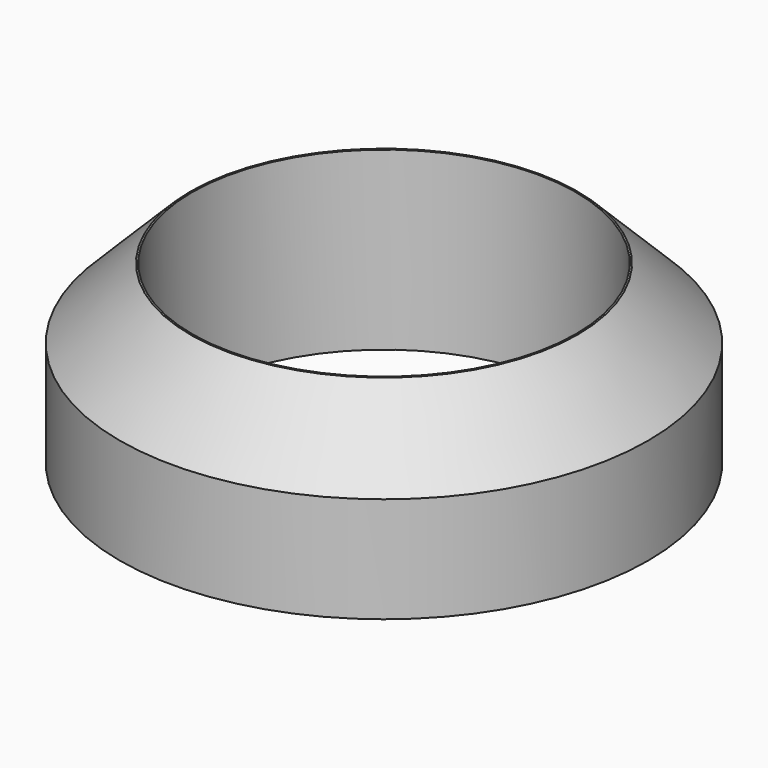
from build123d import *

# Parameters (mm, degrees)
SKETCH_R     = 30
PAD_DEPTH    = 20
SKETCH001_R  = 21.8
POCKET_DEPTH = 25
CHAMFER_SIZE = 8


with BuildPart() as part:
    # Sketch → Pad (new body)
    with BuildSketch(Plane.XY):
        Circle(SKETCH_R)
    extrude(amount=PAD_DEPTH)

    # Sketch001 (on Face3 of Pad) → Pocket (cut)
    with BuildSketch(Plane.XY.offset(20)):
        Circle(SKETCH001_R)
    extrude(amount=-POCKET_DEPTH, mode=Mode.SUBTRACT)

    # Chamfer
    chamfer_edges = [part.edges().sort_by_distance(p)[0] for p in [
        (-30, 0, 20),
    ]]
    chamfer(chamfer_edges, length=CHAMFER_SIZE)


solid = part.part
